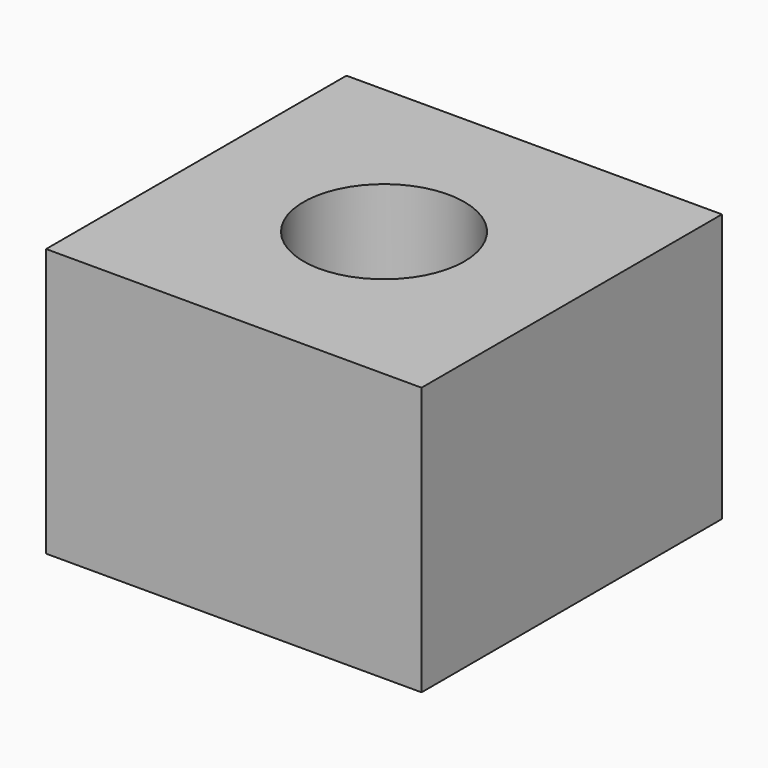
from build123d import *

# Parameters (mm, degrees)
CYLINDER_R     = 1.5
CYLINDER_DEPTH = 5
BOX009_W       = 7
BOX009_H       = 7
BOX009_DEPTH   = 5


with BuildPart() as screwhole:
    # Cylinder → Cylinder (new body)
    with BuildSketch(Plane(origin=(3.5, 8.5, -5), x_dir=(1, 0, 0), z_dir=(0, 0, 1))):
        Circle(CYLINDER_R)
    extrude(amount=CYLINDER_DEPTH)


with BuildPart() as cut005:
    # Box009 → Box009 (new body)
    with BuildSketch(Plane(origin=(0, 5, -5), x_dir=(1, 0, 0), z_dir=(0, 0, 1))):
        with Locations((3.5, 3.5)):
            Rectangle(BOX009_W, BOX009_H)
    extrude(amount=BOX009_DEPTH)

    # Cut005: cut ScrewHole
    add(screwhole.part, mode=Mode.SUBTRACT)


solid = cut005.part
